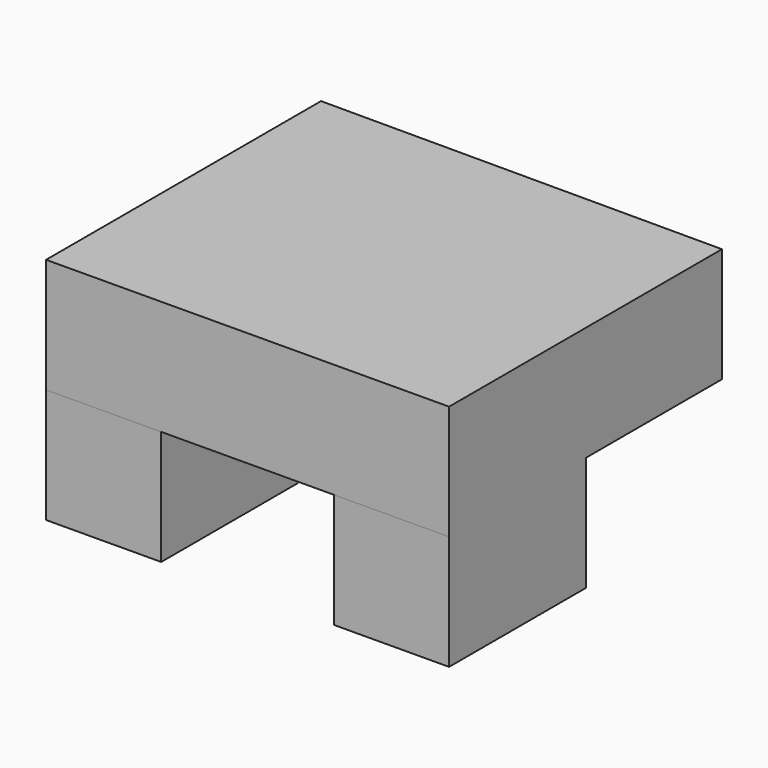
from build123d import *

# Parameters (mm, degrees)
F1_DEPTH = 50.8
F3_DEPTH = 50.8
F5_DEPTH = 50.8


with BuildPart() as f1:
    # F0 (on Top) → F1 (new body)
    with BuildSketch(Plane.XY):
        Polygon((-87.056688, 106.687943), (-87.056688, -45.712057), (90.739539, -44.553774), (90.739539, 106.687943), align=None)
    extrude(amount=F1_DEPTH)

    # F2 (on face) → F3 (join)
    with BuildSketch(Plane(origin=(0, 0, 0), x_dir=(1, 0, 0), z_dir=(0, 0, -1))):
        Polygon((-36.256688, 45.381112), (-87.056688, 45.712057), (-87.056688, -30.487943), (-36.256688, -30.487943), align=None)
    extrude(amount=F3_DEPTH)

    # F4 (on face) → F5 (join)
    with BuildSketch(Plane(origin=(0, 0, 0), x_dir=(1, 0, 0), z_dir=(0, 0, -1))):
        Polygon((90.739539, 44.553774), (39.939539, 44.884719), (39.939539, -31.315281), (90.739539, -31.315281), align=None)
    extrude(amount=F5_DEPTH)


solid = f1.part
